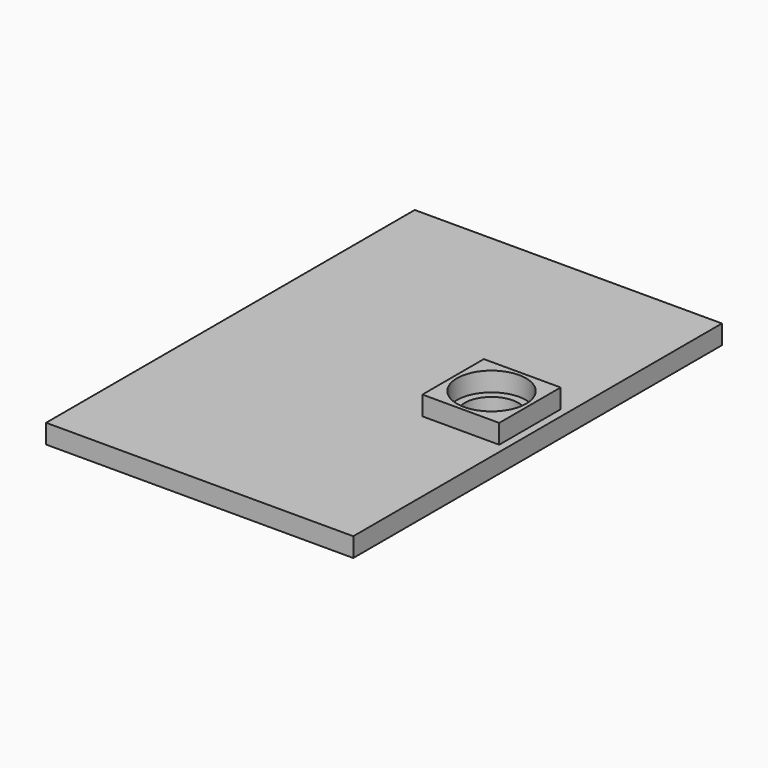
from build123d import *

# Parameters (mm, degrees)
F1_DEPTH       = 6.35
F2_DEPTH       = 12.7
F4_D           = 17.78
F4_CBORE_D     = 22.86
F4_CBORE_DEPTH = 6.35


with BuildPart() as f1:
    # F0 (on Top) → F1 (new body)
    with BuildSketch(Plane.XY):
        Polygon((50.8, 76.2), (-50.8, 76.2), (-50.8, -76.2), (50.8, -76.2), (50.8, 0), align=None)
        Polygon((48.26, 12.7), (48.26, 0), (48.26, -12.7), (22.86, -12.7), (22.86, 12.7), align=None, mode=Mode.SUBTRACT)
    extrude(amount=F1_DEPTH)

    # F0 (on Top) → F2 (join)
    with BuildSketch(Plane.XY):
        Polygon((48.26, -12.7), (48.26, 0), (48.26, 12.7), (22.86, 12.7), (22.86, -12.7), align=None)
    extrude(amount=F2_DEPTH)

    # F4 (through all)
    with Locations(Plane.XY.offset(12.7)):
        with Locations((35.56, 0)):
            CounterBoreHole(F4_D / 2, F4_CBORE_D / 2, F4_CBORE_DEPTH)


solid = f1.part
